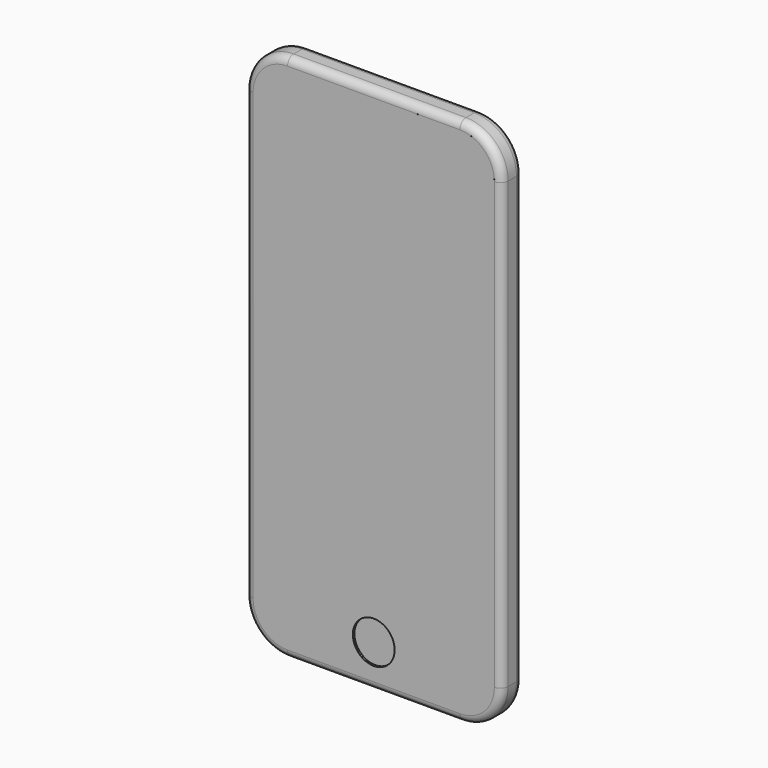
from build123d import *

# Parameters (mm, degrees)
F0_W      = 66.97
F0_H      = 138.14
F1_DEPTH  = 6.7
F2_R      = 11
F3_R      = 2
F4_R      = 2.0066
F5_R      = 5.45
F6_DEPTH  = 0.5
F8_DEPTH  = 0.001
F9_DEPTH  = 0.001
F11_DEPTH = 0.001


with BuildPart() as f1:
    # F0 (on Front) → F1 (new body)
    with BuildSketch(Plane.XZ):
        with Locations((33.485, 69.07)):
            Rectangle(F0_W, F0_H)
    extrude(amount=F1_DEPTH)

    # F2
    f2_edges = [f1.edges().sort_by_distance(p)[0] for p in [
        (0, -3.35, 138.14),
        (66.97, -3.35, 138.14),
        (66.97, -3.35, 0),
        (0, -3.35, 0),
    ]]
    fillet(f2_edges, radius=F2_R)

    # F3
    f3_edges = [f1.edges().sort_by_distance(p)[0] for p in [
        (0, -6.7, 69.07),
        (3.221825, -6.7, 134.918175),
        (3.221825, -6.7, 3.221825),
        (33.485, -6.7, 138.14),
        (33.485, -6.7, 0),
        (63.748175, -6.7, 134.918175),
        (63.748175, -6.7, 3.221825),
        (66.97, -6.7, 69.07),
    ]]
    fillet(f3_edges, radius=F3_R)

    # F4
    f4_edges = [f1.edges().sort_by_distance(p)[0] for p in [
        (0, 0, 69.07),
        (3.221825, 0, 134.918175),
        (3.221825, 0, 3.221825),
        (33.485, 0, 138.14),
        (33.485, 0, 0),
        (63.748175, 0, 134.918175),
        (63.748175, 0, 3.221825),
        (66.97, 0, 69.07),
    ]]
    fillet(f4_edges, radius=F4_R)


with BuildPart() as f6:
    # F5 (on face) → F6 (new body)
    with BuildSketch(Plane.XZ.offset(6.7)):
        with Locations((33.485, 11.1)):
            Circle(F5_R)
    extrude(amount=-F6_DEPTH)


with BuildPart() as f1_1:
    add(f1.part)

    # F7: cut F6
    add(f6.part, mode=Mode.SUBTRACT)


with BuildPart() as f8:
    # F5 (on face) → F8 (new body)
    with BuildSketch(Plane.XZ.offset(6.7)):
        with BuildLine():
            ThreePointArc((11, 136.14), (4.636039, 133.503961), (2, 127.14))
            Line((2, 127.14), (2, 11))
            ThreePointArc((2, 11), (4.636039, 4.636039), (11, 2))
            Line((11, 2), (55.97, 2))
            ThreePointArc((55.97, 2), (62.333961, 4.636039), (64.97, 11))
            Line((64.97, 11), (64.97, 127.14))
            ThreePointArc((64.97, 127.14), (62.333961, 133.503961), (55.97, 136.14))
            Line((55.97, 136.14), (11, 136.14))
        make_face()
        with Locations((33.485, 11.1)):
            Circle(F5_R, mode=Mode.SUBTRACT)
    extrude(amount=F8_DEPTH)


with BuildPart() as f9:
    # F5 (on face) → F9 (new body)
    with BuildSketch(Plane.XZ.offset(6.7)):
        with Locations((33.485, 11.1)):
            Circle(F5_R)
    extrude(amount=F9_DEPTH)


with BuildPart() as f11:
    # F5 (on face) → F11 (new body)
    with BuildSketch(Plane.XZ.offset(6.7)):
        with Locations((33.485, 11.1)):
            Circle(F5_R)
    extrude(amount=-F11_DEPTH)


solid = Compound([f1_1.part, f8.part])
